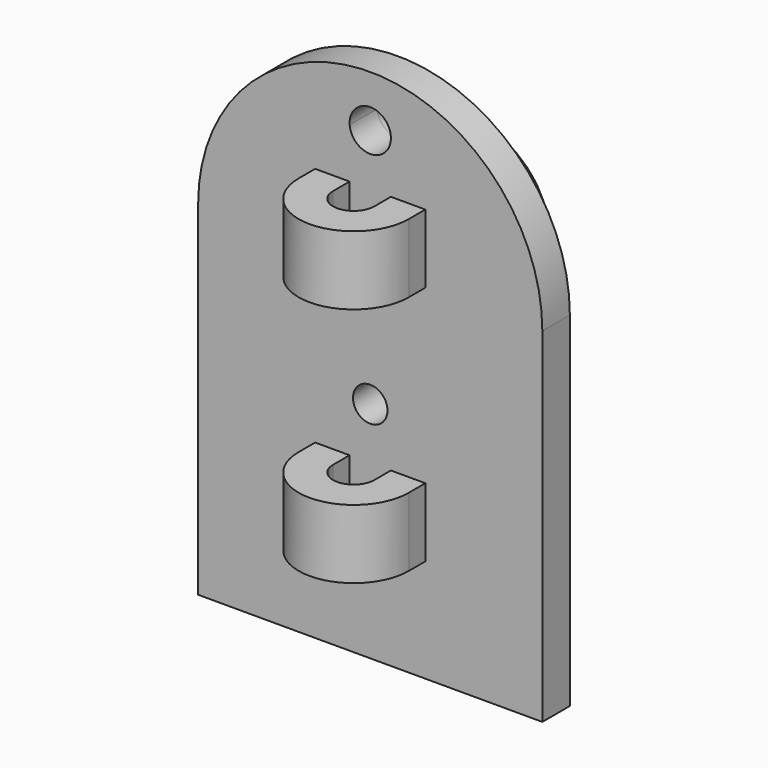
from build123d import *

# Parameters (mm, degrees)
F0_R     = 0.5
F1_DEPTH = 1
F2_ANGLE = -180
F3_W     = 1
F3_H     = 0.6
F4_DEPTH = 12
F5_W     = 5
F5_H     = 5
F5_H_2   = 3
F6_DEPTH = 25
F7_DEPTH = 25


with BuildPart() as f1:
    # F0 (on Front) → F1 (new body)
    with BuildSketch(Plane.XZ):
        with BuildLine():
            ThreePointArc((5, 10), (0, 15), (-5, 10))
            Line((-5, 10), (-5, 0))
            Line((-5, 0), (5, 0))
            Line((5, 0), (5, 10))
        make_face()
        with Locations((0, 6.5)):
            Circle(F0_R, mode=Mode.SUBTRACT)
        with BuildLine():
            ThreePointArc((-0.597792, 13.448571), (-0.025738, 14.099448), (0.6, 13.5))
            ThreePointArc((0.6, 13.5), (0.599448, 13.474262), (0.597792, 13.448571))
            ThreePointArc((0.597792, 13.448571), (2.677898, 12.253634), (3.5, 10))
            Line((3.5, 10), (-3.5, 10))
            ThreePointArc((-3.5, 10), (-2.677898, 12.253634), (-0.597792, 13.448571))
        make_face(mode=Mode.SUBTRACT)
        with BuildLine():
            ThreePointArc((0.597792, 13.448571), (0, 12.9), (-0.597792, 13.448571))
            ThreePointArc((-0.597792, 13.448571), (-2.677898, 12.253634), (-3.5, 10))
            Line((-3.5, 10), (3.5, 10))
            ThreePointArc((3.5, 10), (2.677898, 12.253634), (0.597792, 13.448571))
        make_face()
        with BuildLine():
            ThreePointArc((0.597792, 13.448571), (0, 12.9), (-0.597792, 13.448571))
            ThreePointArc((-0.597792, 13.448571), (-2.677898, 12.253634), (-3.5, 10))
            Line((-3.5, 10), (3.5, 10))
            ThreePointArc((3.5, 10), (2.677898, 12.253634), (0.597792, 13.448571))
        make_face()
    extrude(amount=F1_DEPTH)

    # F0 (on Front) → F2 (revolve)
    with BuildSketch(Plane.XZ):
        with BuildLine():
            ThreePointArc((0.597792, 13.448571), (0, 12.9), (-0.597792, 13.448571))
            ThreePointArc((-0.597792, 13.448571), (-2.677898, 12.253634), (-3.5, 10))
            Line((-3.5, 10), (3.5, 10))
            ThreePointArc((3.5, 10), (2.677898, 12.253634), (0.597792, 13.448571))
        make_face()
    revolve(axis=Axis((1.296766, 0, 10), (1, 0, 0)), revolution_arc=F2_ANGLE)

    # F3 (on Top) → F4 (join)
    with BuildSketch(Plane.XY):
        with Locations((-1.1, -1.3)):
            Rectangle(F3_W, F3_H)
        with BuildLine():
            Line((-0.6, -1.6), (-1.6, -1.6))
            ThreePointArc((-1.6, -1.6), (0, -3.2), (1.6, -1.6))
            Line((1.6, -1.6), (0.6, -1.6))
            ThreePointArc((0.6, -1.6), (0, -2.2), (-0.6, -1.6))
        make_face()
        with Locations((1.1, -1.3)):
            Rectangle(F3_W, F3_H)
    extrude(amount=F4_DEPTH)

    # F5 (on Right) → F6 (cut)
    with BuildSketch(Plane.YZ):
        with Locations((-3.5, 7.5)):
            Rectangle(F5_W, F5_H)
        with Locations((-3.5, 1.5)):
            Rectangle(F5_W, F5_H_2)
    extrude(amount=-F6_DEPTH, mode=Mode.SUBTRACT)

    # F5 (on Right) → F7 (cut)
    with BuildSketch(Plane.YZ):
        with Locations((-3.5, 7.5)):
            Rectangle(F5_W, F5_H)
        with Locations((-3.5, 1.5)):
            Rectangle(F5_W, F5_H_2)
    extrude(amount=F7_DEPTH, mode=Mode.SUBTRACT)


solid = f1.part
